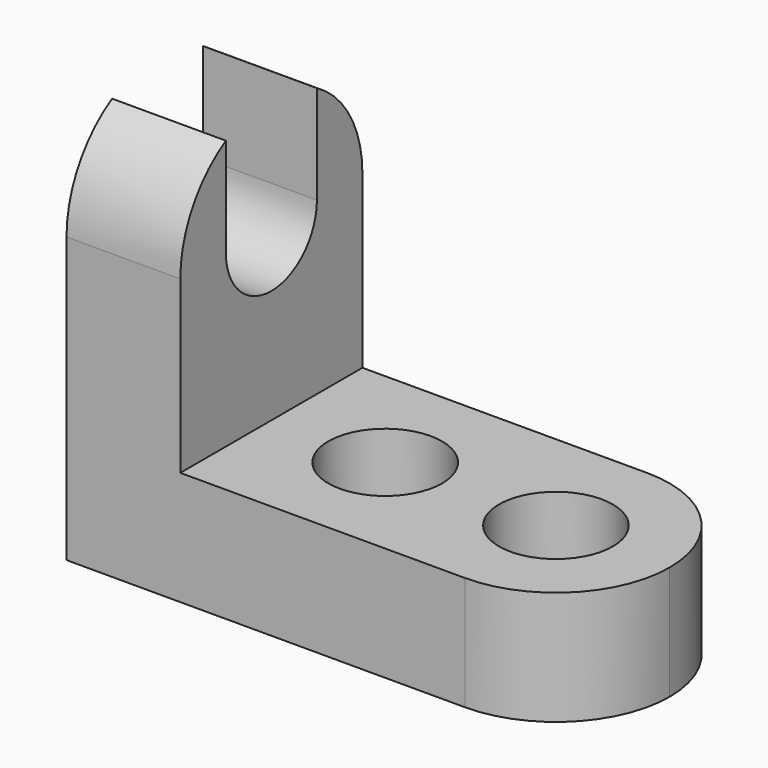
from build123d import *

# Parameters (mm, degrees)
F1_DEPTH = 25.4
F2_R     = 6.35
F3_DEPTH = 44.451
F5_DEPTH = 57.151
F7_DEPTH = 57.151
F9_DEPTH = 42.749523


with BuildPart() as f1:
    # F0 (on Front) → F1 (new body)
    with BuildSketch(Plane.XZ):
        Polygon((12.7, 44.45), (0, 44.45), (0, 0), (57.15, 0), (57.15, 12.7), (12.7, 12.7), align=None)
    extrude(amount=F1_DEPTH)

    # F2 (on Top) → F3 (cut, through all)
    with BuildSketch(Plane.XY):
        with Locations((44.45, -12.7)):
            Circle(F2_R)
        with Locations((25.4, -12.7)):
            Circle(F2_R)
    extrude(amount=F3_DEPTH, mode=Mode.SUBTRACT)

    # F4 (on Right) → F5 (cut, through all)
    with BuildSketch(Plane.YZ):
        with BuildLine():
            ThreePointArc((-19.05, 31.75), (-12.7, 25.4), (-6.35, 31.75))
            ThreePointArc((-6.35, 31.75), (-12.7, 38.1), (-19.05, 31.75))
        make_face()
        with BuildLine():
            ThreePointArc((-19.05, 31.75), (-12.7, 38.1), (-6.35, 31.75))
            Line((-6.35, 31.75), (-6.35, 44.45))
            Line((-6.35, 44.45), (-19.05, 44.45))
            Line((-19.05, 44.45), (-19.05, 31.75))
        make_face()
    extrude(amount=F5_DEPTH, mode=Mode.SUBTRACT)

    # F6 (on Right) → F7 (cut, through all)
    with BuildSketch(Plane.YZ):
        with BuildLine():
            ThreePointArc((-25.4, 31.75), (-21.680256, 40.730256), (-12.7, 44.45))
            Line((-12.7, 44.45), (-25.4, 44.45))
            Line((-25.4, 44.45), (-25.4, 31.75))
        make_face()
        with BuildLine():
            ThreePointArc((-12.7, 44.45), (-3.719744, 40.730256), (0, 31.75))
            Line((0, 31.75), (0, 44.45))
            Line((0, 44.45), (-12.7, 44.45))
        make_face()
    extrude(amount=F7_DEPTH, mode=Mode.SUBTRACT)

    # F8 (on Top) → F9 (cut, through all)
    with BuildSketch(Plane.XY):
        with BuildLine():
            ThreePointArc((44.45, 0), (53.430256, -3.719744), (57.15, -12.7))
            Line((57.15, -12.7), (57.15, 0))
            Line((57.15, 0), (44.45, 0))
        make_face()
        with BuildLine():
            ThreePointArc((57.15, -12.7), (53.430256, -21.680256), (44.45, -25.4))
            Line((44.45, -25.4), (57.15, -25.4))
            Line((57.15, -25.4), (57.15, -12.7))
        make_face()
    extrude(amount=F9_DEPTH, mode=Mode.SUBTRACT)


solid = f1.part
